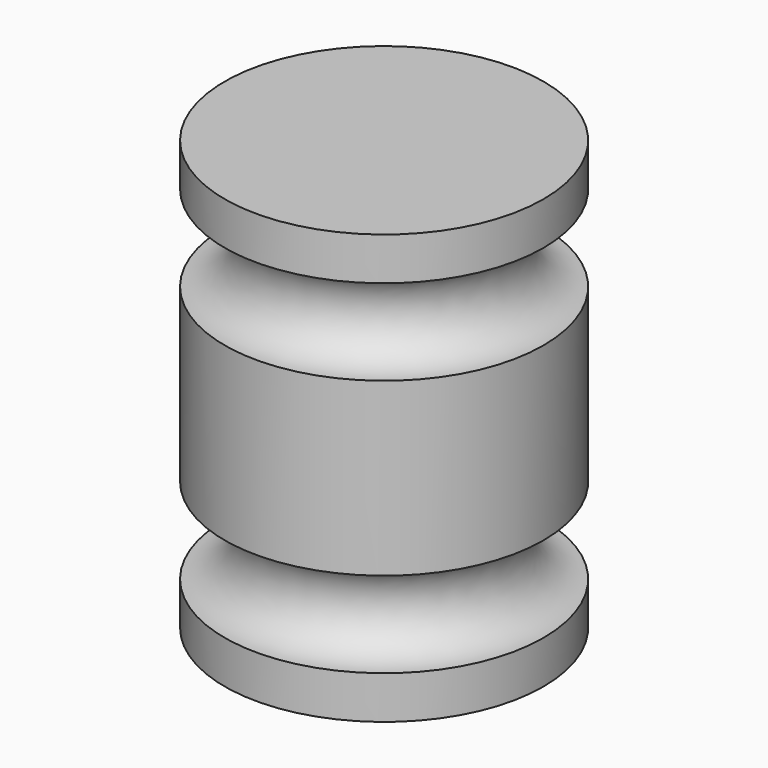
from build123d import *


with BuildPart() as f1:
    # F0 (on Front) → F1 (revolve)
    with BuildSketch(Plane.XZ):
        with BuildLine():
            Line((-44.364922, 0.614919), (-44.364922, -34.385081))
            Line((-44.364922, -34.385081), (-31.364922, -34.385081))
            Line((-31.364922, -34.385081), (-31.364922, -30.885081))
            ThreePointArc((-31.364922, -30.885081), (-34.864922, -27.385081), (-31.364922, -23.885081))
            Line((-31.364922, -23.885081), (-31.364922, -9.885081))
            ThreePointArc((-31.364922, -9.885081), (-34.864922, -6.385081), (-31.364922, -2.885081))
            Line((-31.364922, -2.885081), (-31.364922, 0.614919))
            Line((-31.364922, 0.614919), (-44.364922, 0.614919))
        make_face()
    revolve(axis=Axis((-44.364922, 0, -16.885081), (0, 0, 1)))


solid = f1.part
